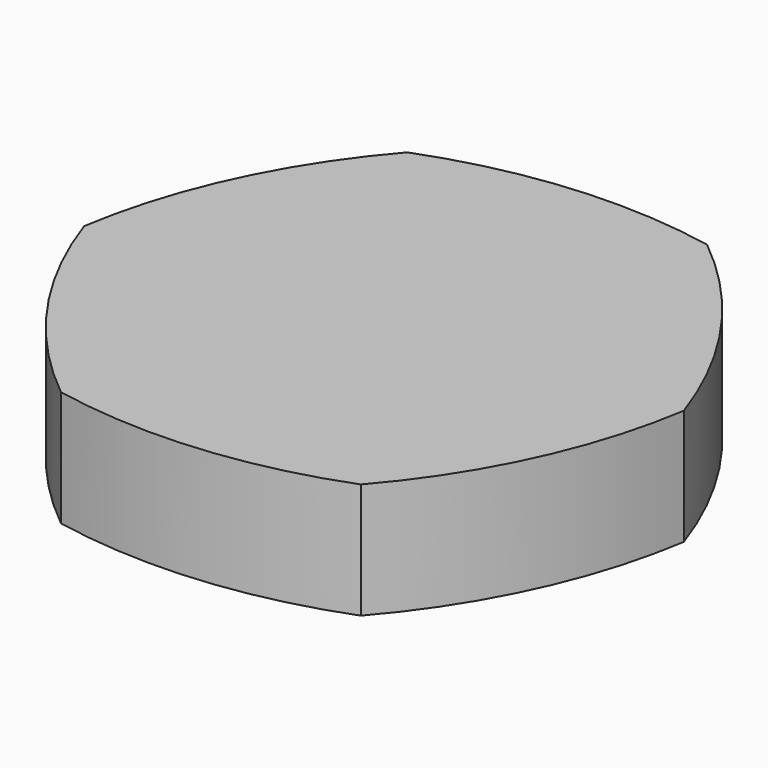
from build123d import *

# Parameters (mm, degrees)
F1_DEPTH = 17


with BuildPart() as f1:
    # F0 (on Top) → F1 (new body)
    with BuildSketch(Plane.XY):
        with BuildLine():
            ThreePointArc((-17.519922, -37.518273), (3.359597, -38.642575), (23.731816, -33.931834))
            ThreePointArc((23.731816, -33.931834), (35.145251, -16.411791), (41.251738, 3.586439))
            ThreePointArc((41.251738, 3.586439), (31.785653, 22.230784), (17.519922, 37.518273))
            ThreePointArc((17.519922, 37.518273), (-3.359597, 38.642575), (-23.731816, 33.931834))
            ThreePointArc((-23.731816, 33.931834), (-35.145251, 16.411791), (-41.251738, -3.586439))
            ThreePointArc((-41.251738, -3.586439), (-31.785653, -22.230784), (-17.519922, -37.518273))
        make_face()
    extrude(amount=-F1_DEPTH)


solid = f1.part
